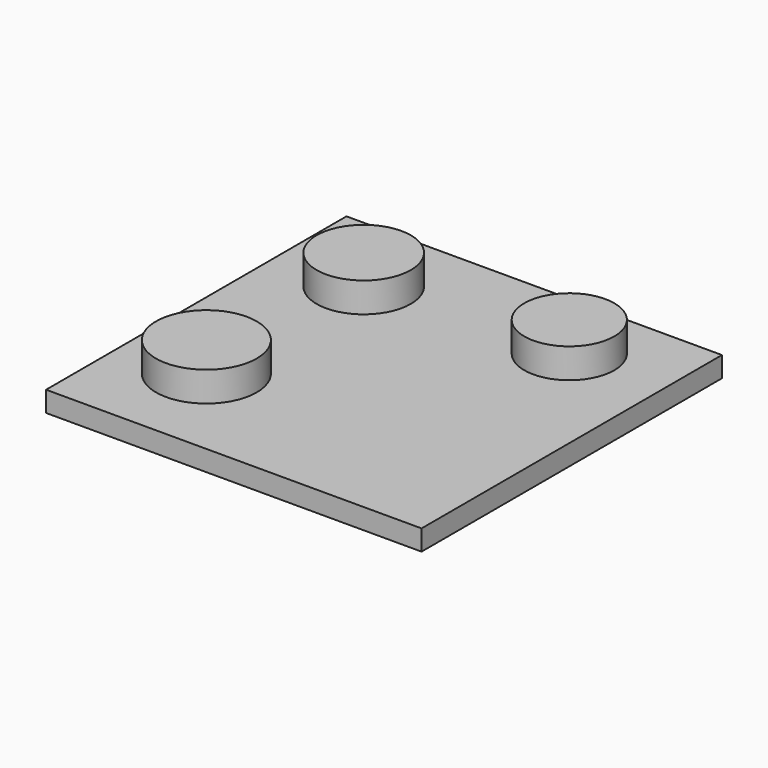
from build123d import *

# Parameters (mm, degrees)
F0_W     = 20.157362
F0_H     = 20.157362
F1_DEPTH = 1.1
F2_R     = 2.529732
F2_R_2   = 2.415473
F2_R_3   = 2.705087
F3_DEPTH = 1.6


with BuildPart() as f1:
    # F0 (on Top) → F1 (new body)
    with BuildSketch(Plane.XY):
        with Locations((-3.302667, 0.387924)):
            Rectangle(F0_W, F0_H)
    extrude(amount=F1_DEPTH)

    # F2 (on face) → F3 (join)
    with BuildSketch(Plane.XY.offset(1.1)):
        with Locations((-8.835531, 5.941908)):
            Circle(F2_R)
        with Locations((1.701719, 6.566437)):
            Circle(F2_R_2)
        with Locations((-9.036944, -4.364801)):
            Circle(F2_R_3)
    extrude(amount=F3_DEPTH)


solid = f1.part
